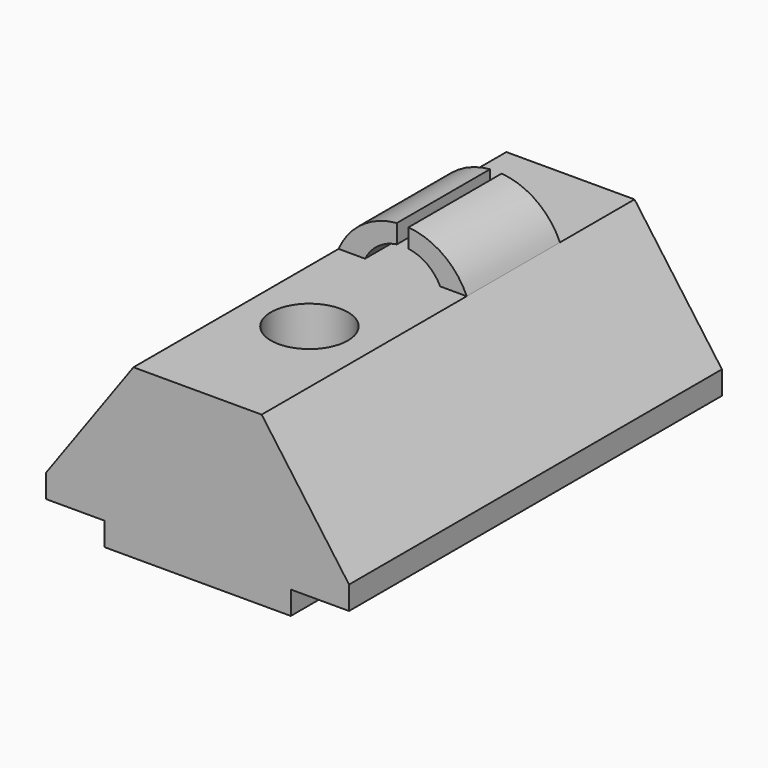
from build123d import *

# Parameters (mm, degrees)
F1_DEPTH = 20
F2_R     = 1.65
F3_DEPTH = 7.201
F5_DEPTH = 9
F7_DEPTH = 4
F9_DEPTH = 16.001


with BuildPart() as f1:
    # F0 (on Front) → F1 (new body)
    with BuildSketch(Plane.XZ):
        Polygon((-4, 0), (0, 0), (4, 0), (4, 1), (6.5, 1), (6.5, 2), (2.75, 7.2), (0, 7.2), (-2.75, 7.2), (-6.5, 2), (-6.5, 1), (-4, 1), align=None)
    extrude(amount=F1_DEPTH)

    # F2 (on face) → F3 (cut, through all)
    with BuildSketch(Plane(origin=(0, 0, 0), x_dir=(1, 0, 0), z_dir=(0, 0, -1))):
        with Locations((0, 14)):
            Circle(F2_R)
    extrude(amount=-F3_DEPTH, mode=Mode.SUBTRACT)

    # F4 (on Front) → F5 (join)
    with BuildSketch(Plane.XZ):
        with BuildLine():
            Line((1.6124515497, 7.2), (2.75, 7.2))
            ThreePointArc((2.75, 7.2), (0, 9), (-2.75, 7.2))
            Line((-2.75, 7.2), (-1.6124515497, 7.2))
            ThreePointArc((-1.6124515497, 7.2), (0, 8.2), (1.6124515497, 7.2))
        make_face()
    extrude(amount=F5_DEPTH)

    # F6 (on face) → F7 (cut)
    with BuildSketch(Plane(origin=(0, 0, 0), x_dir=(-1, 0, 0), z_dir=(0, 1, 0))):
        with BuildLine():
            ThreePointArc((2.75, 7.2), (0, 9), (-2.75, 7.2))
            Line((-2.75, 7.2), (-1.6124515497, 7.2))
            ThreePointArc((-1.6124515497, 7.2), (0, 8.2), (1.6124515497, 7.2))
            Line((1.6124515497, 7.2), (2.75, 7.2))
        make_face()
    extrude(amount=-F7_DEPTH, mode=Mode.SUBTRACT)

    # F8 (on face) → F9 (cut, through all)
    with BuildSketch(Plane(origin=(0, -4, 0), x_dir=(-1, 0, 0), z_dir=(0, 1, 0))):
        with BuildLine():
            Line((-0.25, 8.9895676091), (-0.25, 8.182554347))
            ThreePointArc((-0.25, 8.182554347), (0, 8.2), (0.25, 8.182554347))
            Line((0.25, 8.182554347), (0.25, 8.9895676091))
            ThreePointArc((0.25, 8.9895676091), (0, 9), (-0.25, 8.9895676091))
        make_face()
    extrude(amount=-F9_DEPTH, mode=Mode.SUBTRACT)


solid = f1.part
